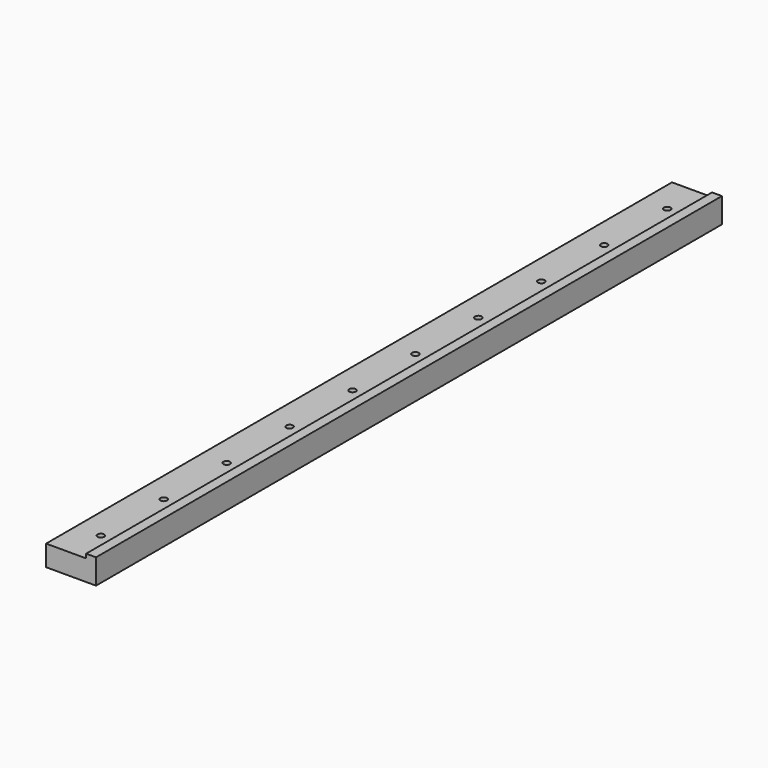
from build123d import *

# Parameters (mm, degrees)
F0_W     = 38.1
F0_H     = 19.05
F1_DEPTH = 596.9
F2_W     = 30.55
F2_H     = 3.175
F3_DEPTH = 596.901
F5_D     = 5.1054
F5_DEPTH = 16.5100084667
F5_TIP   = 1.5338169022


with BuildPart() as f1:
    # F0 (on Front) → F1 (new body)
    with BuildSketch(Plane.XZ):
        Rectangle(F0_W, F0_H)
    extrude(amount=F1_DEPTH)

    # F2 (on face) → F3 (cut, through all)
    with BuildSketch(Plane.XZ.offset(596.9)):
        with Locations((-3.775, 7.9375)):
            Rectangle(F2_W, F2_H)
    extrude(amount=-F3_DEPTH, mode=Mode.SUBTRACT)

    # F5
    with Locations(Plane.XY.offset(6.35)):
        with Locations((0, -568.44946), (0, -508.44946), (0, -448.44946), (0, -388.44946), (0, -328.44946), (0, -268.44946), (0, -208.44946), (0, -148.44946), (0, -88.44946), (0, -28.44946)):
            Hole(F5_D / 2, depth=F5_DEPTH)
            with Locations((0, 0, -(F5_DEPTH + F5_TIP / 2))):  # 118° drill point
                Cone(0, F5_D / 2, F5_TIP, mode=Mode.SUBTRACT)


solid = f1.part
